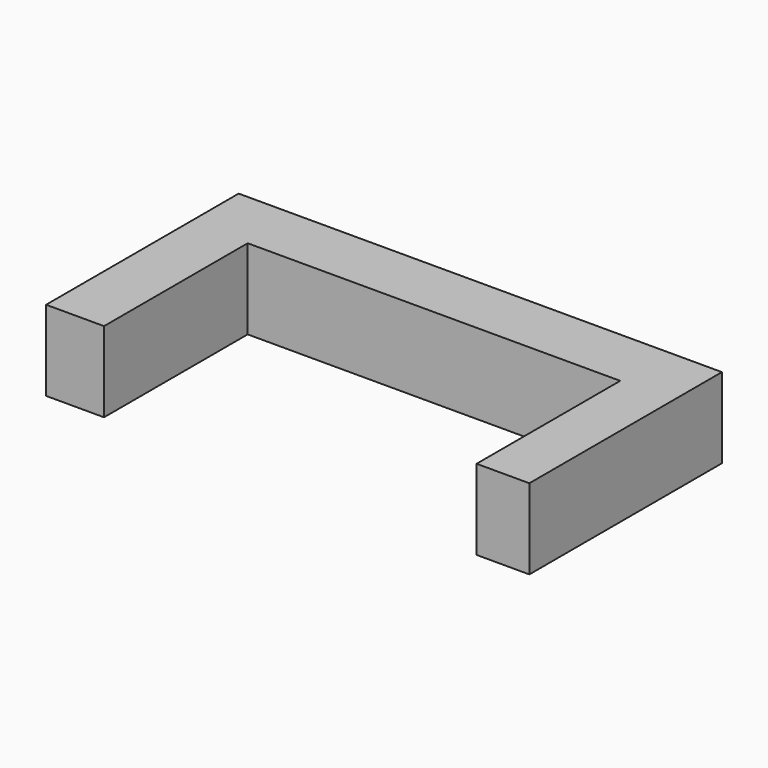
from build123d import *

# Parameters (mm, degrees)
F1_DEPTH = 25.4


with BuildPart() as f1:
    # F0 (on Top) → F1 (new body)
    with BuildSketch(Plane.XY):
        Polygon((-75.640164, 76.165826), (-75.640164, 0), (-57.303153, 0), (-57.303153, 56.811981), (60.57762, 56.811981), (60.57762, 0), (77.2774, 0), (77.2774, 76.165826), align=None)
        Polygon((-75.640164, 76.165826), (-75.640164, 0), (-57.303153, 0), (-57.303153, 56.811981), (60.57762, 56.811981), (60.57762, 0), (77.2774, 0), (77.2774, 76.165826), align=None)
    extrude(amount=F1_DEPTH)


solid = f1.part
